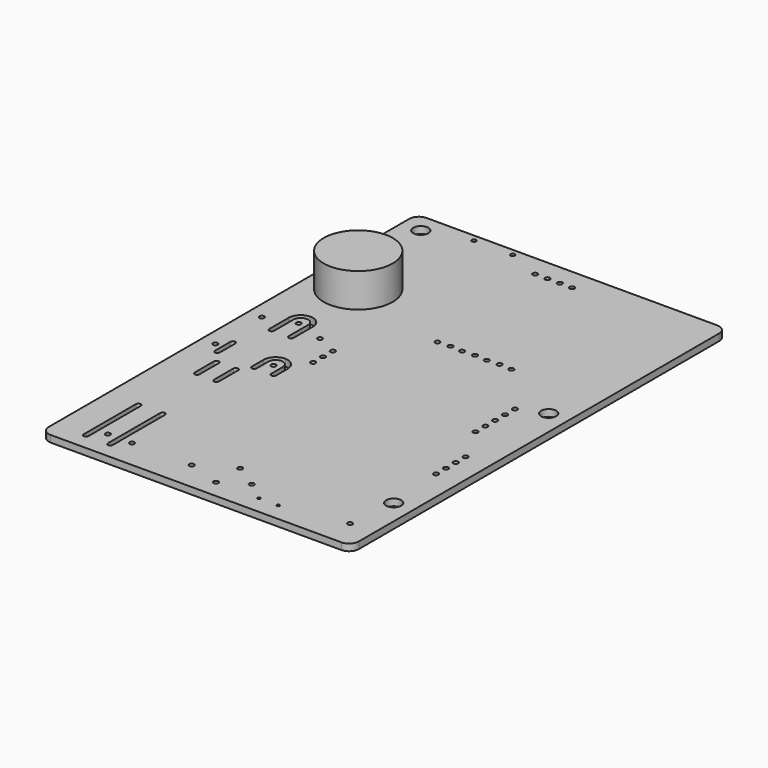
from build123d import *

# Parameters (mm, degrees)
F0_R     = 0.5
F0_R_2   = 0.3
F0_R_3   = 1.55
F0_R_4   = 0.4445
F1_DEPTH = 1.4
F2_R     = 7.125
F3_DEPTH = 7


with BuildPart() as f1:
    # F0 (on Top) → F1 (new body)
    with BuildSketch(Plane.XY):
        with BuildLine():
            Line((31.529199, -44.999991), (31.529199, 48.000009))
            ThreePointArc((31.529199, 48.000009), (30.943413, 49.414223), (29.529199, 50.000009))
            Line((29.529199, 50.000009), (-30.470801, 50.000009))
            ThreePointArc((-30.470801, 50.000009), (-31.885014, 49.414223), (-32.470801, 48.000009))
            Line((-32.470801, 48.000009), (-32.470801, -44.999991))
            ThreePointArc((-32.470801, -44.999991), (-31.885014, -46.414204), (-30.470801, -46.999991))
            Line((-30.470801, -46.999991), (29.529199, -46.999991))
            ThreePointArc((29.529199, -46.999991), (30.943413, -46.414204), (31.529199, -44.999991))
        make_face()
        with BuildLine():
            ThreePointArc((-25.970801, -29.499991), (-25.617247, -29.646437), (-25.470801, -29.999991))
            Line((-25.470801, -29.999991), (-25.470801, -43.499991))
            ThreePointArc((-25.470801, -43.499991), (-25.617247, -43.853544), (-25.970801, -43.999991))
            ThreePointArc((-25.970801, -43.999991), (-26.324354, -43.853544), (-26.470801, -43.499991))
            Line((-26.470801, -43.499991), (-26.470801, -29.999991))
            ThreePointArc((-26.470801, -29.999991), (-26.324354, -29.646437), (-25.970801, -29.499991))
        make_face(mode=Mode.SUBTRACT)
        with Locations((-23.470801, -40.999991)):
            Circle(F0_R, mode=Mode.SUBTRACT)
        with Locations((-18.470801, -40.999991)):
            Circle(F0_R, mode=Mode.SUBTRACT)
        with BuildLine():
            ThreePointArc((-20.970801, -29.499991), (-20.617247, -29.646437), (-20.470801, -29.999991))
            Line((-20.470801, -29.999991), (-20.470801, -43.499991))
            ThreePointArc((-20.470801, -43.499991), (-20.617247, -43.853544), (-20.970801, -43.999991))
            ThreePointArc((-20.970801, -43.999991), (-21.324354, -43.853544), (-21.470801, -43.499991))
            Line((-21.470801, -43.499991), (-21.470801, -29.999991))
            ThreePointArc((-21.470801, -29.999991), (-21.324354, -29.646437), (-20.970801, -29.499991))
        make_face(mode=Mode.SUBTRACT)
        with Locations((-6.170801, -40.999991)):
            Circle(F0_R, mode=Mode.SUBTRACT)
        with BuildLine():
            ThreePointArc((-25.470801, -9.999991), (-25.117247, -10.146437), (-24.970801, -10.499991))
            Line((-24.970801, -10.499991), (-24.970801, -15.499991))
            ThreePointArc((-24.970801, -15.499991), (-25.117247, -15.853544), (-25.470801, -15.999991))
            ThreePointArc((-25.470801, -15.999991), (-25.824354, -15.853544), (-25.970801, -15.499991))
            Line((-25.970801, -15.499991), (-25.970801, -10.499991))
            ThreePointArc((-25.970801, -10.499991), (-25.824354, -10.146437), (-25.470801, -9.999991))
        make_face(mode=Mode.SUBTRACT)
        with BuildLine():
            ThreePointArc((-21.470801, -9.999991), (-21.117247, -10.146437), (-20.970801, -10.499991))
            Line((-20.970801, -10.499991), (-20.970801, -15.499991))
            ThreePointArc((-20.970801, -15.499991), (-21.117247, -15.853544), (-21.470801, -15.999991))
            ThreePointArc((-21.470801, -15.999991), (-21.824354, -15.853544), (-21.970801, -15.499991))
            Line((-21.970801, -15.499991), (-21.970801, -10.499991))
            ThreePointArc((-21.970801, -10.499991), (-21.824354, -10.146437), (-21.470801, -9.999991))
        make_face(mode=Mode.SUBTRACT)
        with Locations((-29.590801, -5.609991)):
            Circle(F0_R, mode=Mode.SUBTRACT)
        with BuildLine():
            ThreePointArc((-27.670801, -2.999991), (-27.317247, -3.146437), (-27.170801, -3.499991))
            Line((-27.170801, -3.499991), (-27.170801, -7.499991))
            ThreePointArc((-27.170801, -7.499991), (-27.317247, -7.853544), (-27.670801, -7.999991))
            ThreePointArc((-27.670801, -7.999991), (-28.024354, -7.853544), (-28.170801, -7.499991))
            Line((-28.170801, -7.499991), (-28.170801, -3.499991))
            ThreePointArc((-28.170801, -3.499991), (-28.024354, -3.146437), (-27.670801, -2.999991))
        make_face(mode=Mode.SUBTRACT)
        with Locations((-17.590801, -5.609991)):
            Circle(F0_R, mode=Mode.SUBTRACT)
        with BuildLine():
            ThreePointArc((-19.070801, -8.099991), (-19.217247, -8.453544), (-19.570801, -8.599991))
            ThreePointArc((-19.570801, -8.599991), (-19.924354, -8.453544), (-20.070801, -8.099991))
            Line((-20.070801, -8.099991), (-20.070801, -5.099991))
            ThreePointArc((-20.070801, -5.099991), (-19.338568, -3.332224), (-17.570801, -2.599991))
            ThreePointArc((-17.570801, -2.599991), (-15.803034, -3.332224), (-15.070801, -5.099991))
            Line((-15.070801, -5.099991), (-15.070801, -8.099991))
            ThreePointArc((-15.070801, -8.099991), (-15.217247, -8.453544), (-15.570801, -8.599991))
            ThreePointArc((-15.570801, -8.599991), (-15.924354, -8.453544), (-16.070801, -8.099991))
            Line((-16.070801, -8.099991), (-16.070801, -5.099991))
            ThreePointArc((-16.070801, -5.099991), (-16.51014, -4.03933), (-17.570801, -3.599991))
            ThreePointArc((-17.570801, -3.599991), (-18.631461, -4.03933), (-19.070801, -5.099991))
            Line((-19.070801, -5.099991), (-19.070801, -8.099991))
        make_face(mode=Mode.SUBTRACT)
        with Locations((-13.250801, -0.809991)):
            Circle(F0_R, mode=Mode.SUBTRACT)
        with Locations((0.640199, -43.237991)):
            Circle(F0_R, mode=Mode.SUBTRACT)
        with Locations((0.640199, -37.014991)):
            Circle(F0_R, mode=Mode.SUBTRACT)
        with Locations((5.593199, -40.189991)):
            Circle(F0_R, mode=Mode.SUBTRACT)
        with Locations((9.529199, -43.299991)):
            Circle(F0_R_2, mode=Mode.SUBTRACT)
        with Locations((13.529199, -43.299991)):
            Circle(F0_R_2, mode=Mode.SUBTRACT)
        with Locations((26.529199, -40.999991)):
            Circle(F0_R, mode=Mode.SUBTRACT)
        with Locations((27.529199, -30.999991)):
            Circle(F0_R_3, mode=Mode.SUBTRACT)
        with Locations((26.529199, -18.809991)):
            Circle(F0_R, mode=Mode.SUBTRACT)
        with Locations((26.529199, -16.269991)):
            Circle(F0_R, mode=Mode.SUBTRACT)
        with Locations((26.529199, -13.729991)):
            Circle(F0_R, mode=Mode.SUBTRACT)
        with Locations((26.529199, -11.189991)):
            Circle(F0_R, mode=Mode.SUBTRACT)
        with Locations((22.309199, -3.349991)):
            Circle(F0_R, mode=Mode.SUBTRACT)
        with Locations((22.309199, -0.809991)):
            Circle(F0_R, mode=Mode.SUBTRACT)
        with Locations((-29.590801, 6.390009)):
            Circle(F0_R, mode=Mode.SUBTRACT)
        with BuildLine():
            ThreePointArc((-25.070801, 3.900009), (-25.217247, 3.546456), (-25.570801, 3.400009))
            ThreePointArc((-25.570801, 3.400009), (-25.924354, 3.546456), (-26.070801, 3.900009))
            Line((-26.070801, 3.900009), (-26.070801, 8.900009))
            ThreePointArc((-26.070801, 8.900009), (-25.338568, 10.667776), (-23.570801, 11.400009))
            ThreePointArc((-23.570801, 11.400009), (-21.803034, 10.667776), (-21.070801, 8.900009))
            Line((-21.070801, 8.900009), (-21.070801, 3.900009))
            ThreePointArc((-21.070801, 3.900009), (-21.217247, 3.546456), (-21.570801, 3.400009))
            ThreePointArc((-21.570801, 3.400009), (-21.924354, 3.546456), (-22.070801, 3.900009))
            Line((-22.070801, 3.900009), (-22.070801, 8.900009))
            ThreePointArc((-22.070801, 8.900009), (-22.51014, 9.96067), (-23.570801, 10.400009))
            ThreePointArc((-23.570801, 10.400009), (-24.631461, 9.96067), (-25.070801, 8.900009))
            Line((-25.070801, 8.900009), (-25.070801, 3.900009))
        make_face(mode=Mode.SUBTRACT)
        with Locations((-17.590801, 6.390009)):
            Circle(F0_R, mode=Mode.SUBTRACT)
        with Locations((-23.590801, 8.390009)):
            Circle(F0_R, mode=Mode.SUBTRACT)
        Polygon((-22.200801, 19.714775), (-22.944767, 18.970809), (-23.996835, 18.970809), (-24.740801, 19.714775), (-24.740801, 20.766843), (-23.996835, 21.510809), (-22.944767, 21.510809), (-22.200801, 20.766843), align=None, mode=Mode.SUBTRACT)
        with Locations((-13.250801, 1.730009)):
            Circle(F0_R, mode=Mode.SUBTRACT)
        with Locations((-13.250801, 4.270009)):
            Circle(F0_R, mode=Mode.SUBTRACT)
        with Locations((-2.050801, 17.290009)):
            Circle(F0_R, mode=Mode.SUBTRACT)
        Polygon((-22.200801, 27.233175), (-22.944767, 26.489209), (-23.996835, 26.489209), (-24.740801, 27.233175), (-24.740801, 28.285243), (-23.996835, 29.029209), (-22.944767, 29.029209), (-22.200801, 28.285243), align=None, mode=Mode.SUBTRACT)
        with Locations((-28.470801, 46.000009)):
            Circle(F0_R_3, mode=Mode.SUBTRACT)
        with Locations((-19.584801, 48.607009)):
            Circle(F0_R_4, mode=Mode.SUBTRACT)
        with Locations((-11.584801, 48.607009)):
            Circle(F0_R_4, mode=Mode.SUBTRACT)
        with Locations((-4.555801, 45.630009)):
            Circle(F0_R, mode=Mode.SUBTRACT)
        with Locations((-2.015801, 45.630009)):
            Circle(F0_R, mode=Mode.SUBTRACT)
        with Locations((0.489199, 17.440009)):
            Circle(F0_R, mode=Mode.SUBTRACT)
        with Locations((3.029199, 17.290009)):
            Circle(F0_R, mode=Mode.SUBTRACT)
        with Locations((5.569199, 17.440009)):
            Circle(F0_R, mode=Mode.SUBTRACT)
        with Locations((8.109199, 17.290009)):
            Circle(F0_R, mode=Mode.SUBTRACT)
        with Locations((10.649199, 17.440009)):
            Circle(F0_R, mode=Mode.SUBTRACT)
        with Locations((13.189199, 17.290009)):
            Circle(F0_R, mode=Mode.SUBTRACT)
        with Locations((22.309199, 1.730009)):
            Circle(F0_R, mode=Mode.SUBTRACT)
        with Locations((22.309199, 4.270009)):
            Circle(F0_R, mode=Mode.SUBTRACT)
        with Locations((22.309199, 6.810009)):
            Circle(F0_R, mode=Mode.SUBTRACT)
        with Locations((27.529199, 9.000009)):
            Circle(F0_R_3, mode=Mode.SUBTRACT)
        with Locations((0.524199, 45.630009)):
            Circle(F0_R, mode=Mode.SUBTRACT)
        with Locations((3.064199, 45.630009)):
            Circle(F0_R, mode=Mode.SUBTRACT)
    extrude(amount=F1_DEPTH)


with BuildPart() as f3:
    # F2 (on face) → F3 (new body)
    with BuildSketch(Plane.XY.offset(1.4)):
        with Locations((-23.547914, 23.692096)):
            Circle(F2_R)
    extrude(amount=F3_DEPTH)


solid = Compound([f1.part, f3.part])
